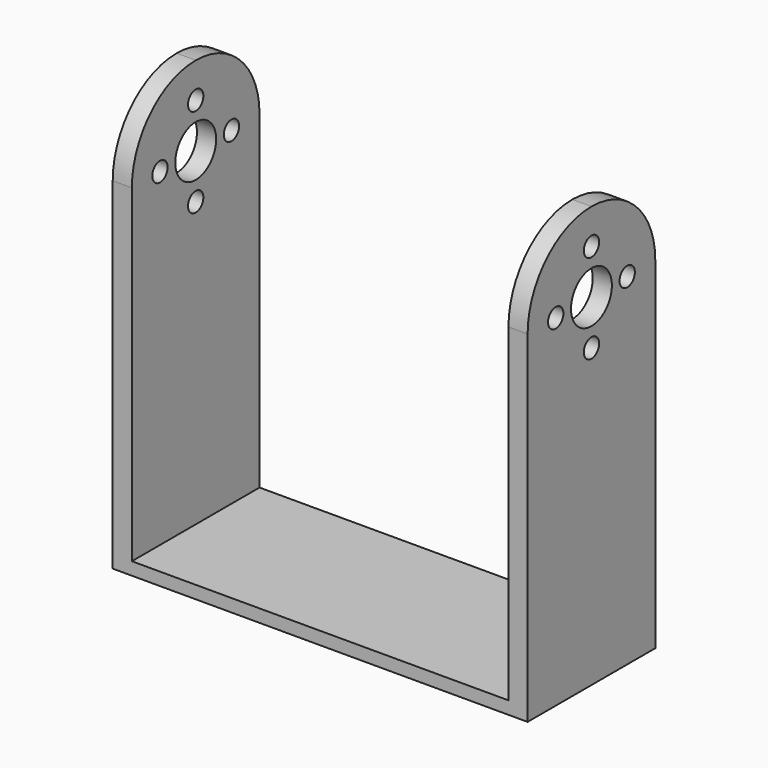
from build123d import *

# Parameters (mm, degrees)
F0_W     = 65
F0_H     = 25
F1_DEPTH = 2
F2_W     = 3
F2_H     = 25
F3_DEPTH = 66
F4_R     = 4
F4_R_2   = 1.5
F5_DEPTH = 65.001


with BuildPart() as f1:
    # F0 (on Top) → F1 (new body)
    with BuildSketch(Plane.XY):
        with Locations((32.5, 12.5)):
            Rectangle(F0_W, F0_H)
    extrude(amount=F1_DEPTH)

    # F2 (on Top) → F3 (join)
    with BuildSketch(Plane.XY):
        with Locations((1.5, 12.5)):
            Rectangle(F2_W, F2_H)
        with Locations((63.5, 12.5)):
            Rectangle(F2_W, F2_H)
    extrude(amount=F3_DEPTH)

    # F4 (on face) → F5 (cut, through all)
    with BuildSketch(Plane(origin=(0, 0, 0), x_dir=(0, -1, 0), z_dir=(-1, 0, 0))):
        with BuildLine():
            ThreePointArc((-25, 53.5), (-21.338835, 62.338835), (-12.5, 66))
            Line((-12.5, 66), (-25, 66))
            Line((-25, 66), (-25, 53.5))
        make_face()
        with BuildLine():
            ThreePointArc((-12.5, 66), (-3.661165, 62.338835), (0, 53.5))
            Line((0, 53.5), (0, 66))
            Line((0, 66), (-12.5, 66))
        make_face()
        with Locations((-12.5, 53.5)):
            Circle(F4_R)
        with Locations((-12.5, 60.5)):
            Circle(F4_R_2)
        with Locations((-19.5, 53.5)):
            Circle(F4_R_2)
        with Locations((-12.5, 46.5)):
            Circle(F4_R_2)
        with Locations((-5.5, 53.5)):
            Circle(F4_R_2)
    extrude(amount=-F5_DEPTH, mode=Mode.SUBTRACT)


solid = f1.part
